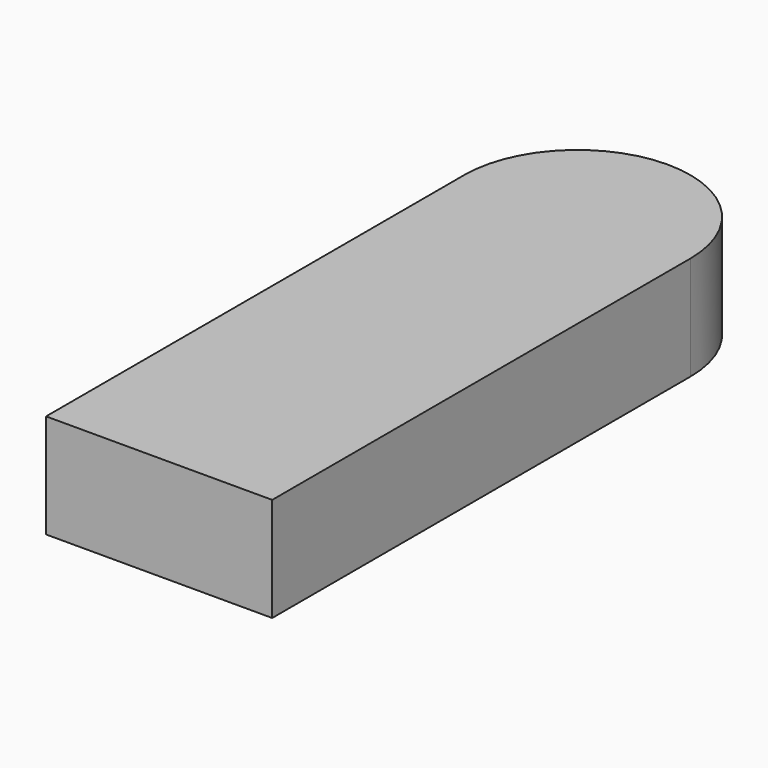
from build123d import *

# Parameters (mm, degrees)
F0_W     = 33.489984
F0_H     = 77.415258
F1_DEPTH = 15.4


with BuildPart() as f1:
    # F0 (on Top) → F1 (new body)
    with BuildSketch(Plane.XY):
        with Locations((0.12134, -2.06279)):
            Rectangle(F0_W, F0_H)
        with BuildLine():
            ThreePointArc((16.866332, 36.644839), (0.12134, 53.389831), (-16.623652, 36.644839))
            Line((-16.623652, 36.644839), (16.866332, 36.644839))
        make_face()
        with BuildLine():
            ThreePointArc((16.866332, 36.644839), (0.12134, 53.389831), (-16.623652, 36.644839))
            Line((-16.623652, 36.644839), (16.866332, 36.644839))
        make_face()
    extrude(amount=F1_DEPTH)


solid = f1.part
